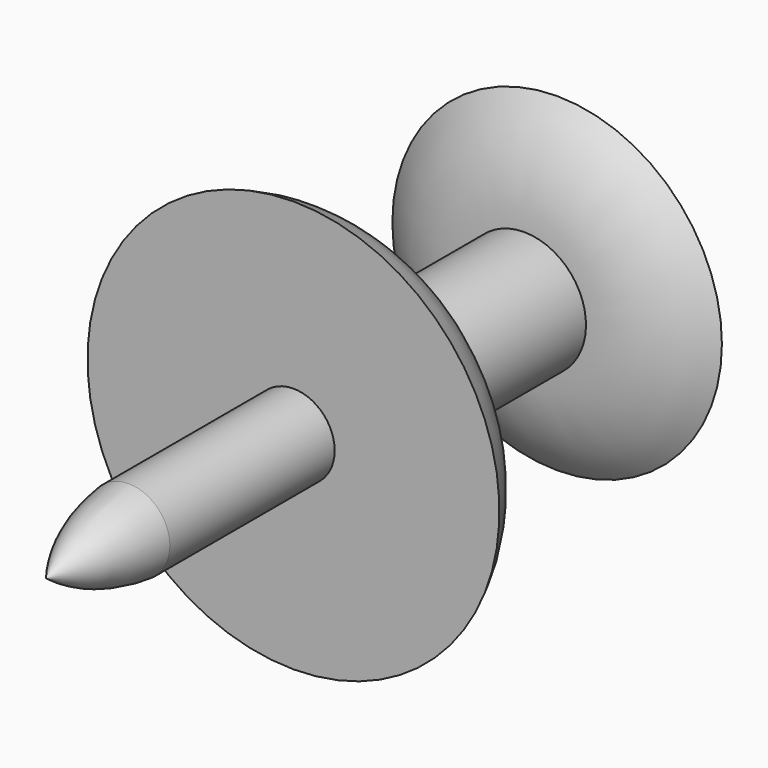
from build123d import *

# Parameters (mm, degrees)
F0_R     = 1.27
F1_DEPTH = 6.35
F4_W     = 6.35
F4_H     = 1.905


with BuildPart() as f1:
    # F0 (on Front) → F1 (new body)
    with BuildSketch(Plane.XZ):
        Circle(F0_R)
    extrude(amount=F1_DEPTH)

    # F2 (on Right) → F3 (revolve)
    with BuildSketch(Plane.YZ):
        with BuildLine():
            Line((-9.533481, 0), (-6.35, 0))
            Line((-6.35, 0), (-6.35, 1.27))
            ThreePointArc((-6.35, 1.27), (-8.034465, 0.867432), (-9.533481, 0))
        make_face()
    revolve(axis=Axis((0, -7.94174, 0), (0, -1, 0)))

    # F4 (on Right) → F5 (revolve)
    with BuildSketch(Plane.YZ):
        with BuildLine():
            Line((0, 6.35), (0, 0))
            Line((0, 0), (2.54, 0))
            Line((2.54, 0), (2.54, 1.905))
            Line((2.54, 1.905), (2.54, 2.54))
            ThreePointArc((2.54, 2.54), (1.846788, 4.829525), (0, 6.35))
        make_face()
        with Locations((5.715, 0.9525)):
            Rectangle(F4_W, F4_H)
        with BuildLine():
            Line((8.89, 1.905), (8.89, 0))
            Line((8.89, 0), (10.16, 0))
            Line((10.16, 0), (10.16, 5.08))
            ThreePointArc((10.16, 5.08), (9.219275, 3.61479), (8.89, 1.905))
        make_face()
    revolve(axis=Axis((0, 5.715, 0), (0, 1, 0)))


solid = f1.part
